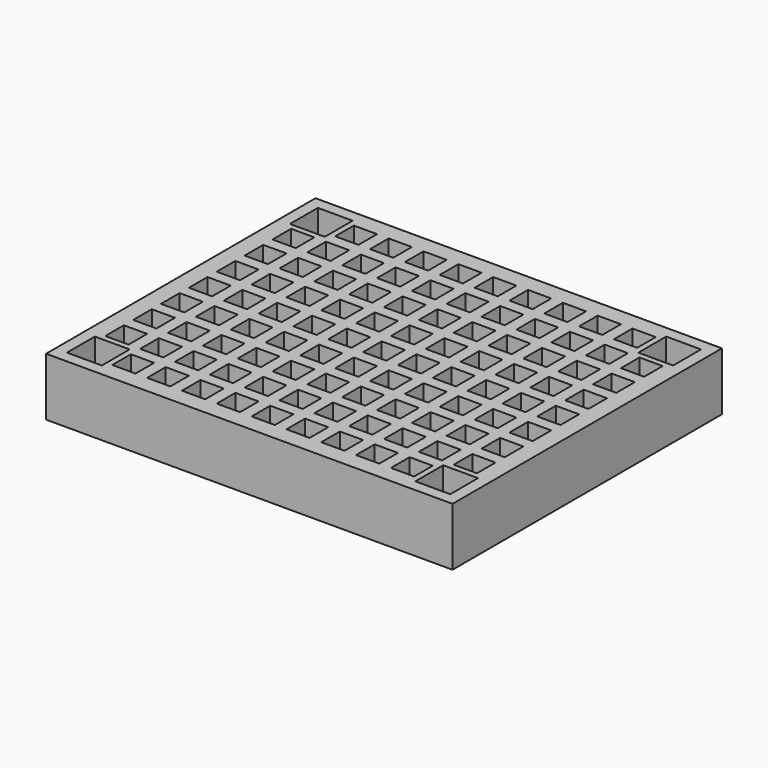
from build123d import *

# Parameters (mm, degrees)
F0_W     = 222.25
F0_H     = 184.15
F1_DEPTH = 31.75
F2_W     = 12.7
F2_H     = 12.7
F2_W_2   = 6.35
F3_DEPTH = 31.751
F4_W     = 19.05
F4_H     = 19.05
F5_DEPTH = 19.05


with BuildPart() as f1:
    # F0 (on Top) → F1 (new body)
    with BuildSketch(Plane.XY):
        Rectangle(F0_W, F0_H)
    extrude(amount=F1_DEPTH)

    # F2 (on face) → F3 (cut, through all)
    with BuildSketch(Plane.XY.offset(31.75)):
        with Locations((-76.2, -76.2)):
            Rectangle(F2_W, F2_H)
        with Locations((-76.2, -57.15)):
            Rectangle(F2_W, F2_H)
        with Locations((-76.2, -38.1)):
            Rectangle(F2_W, F2_H)
        with Locations((-76.2, -19.05)):
            Rectangle(F2_W, F2_H)
        with Locations((-76.2, 0)):
            Rectangle(F2_W, F2_H)
        with Locations((-76.2, 19.05)):
            Rectangle(F2_W, F2_H)
        with Locations((-76.2, 38.1)):
            Rectangle(F2_W, F2_H)
        with Locations((-76.2, 57.15)):
            Rectangle(F2_W, F2_H)
        with Locations((-76.2, 76.2)):
            Rectangle(F2_W, F2_H)
        with Locations((-57.15, -76.2)):
            Rectangle(F2_W, F2_H)
        with Locations((-57.15, -57.15)):
            Rectangle(F2_W, F2_H)
        with Locations((-57.15, -38.1)):
            Rectangle(F2_W, F2_H)
        with Locations((-57.15, -19.05)):
            Rectangle(F2_W, F2_H)
        with Locations((-57.15, 0)):
            Rectangle(F2_W, F2_H)
        with Locations((-57.15, 19.05)):
            Rectangle(F2_W, F2_H)
        with Locations((-57.15, 38.1)):
            Rectangle(F2_W, F2_H)
        with Locations((-57.15, 57.15)):
            Rectangle(F2_W, F2_H)
        with Locations((-57.15, 76.2)):
            Rectangle(F2_W, F2_H)
        with Locations((-38.1, -76.2)):
            Rectangle(F2_W, F2_H)
        with Locations((-38.1, -57.15)):
            Rectangle(F2_W, F2_H)
        with Locations((-38.1, -38.1)):
            Rectangle(F2_W, F2_H)
        with Locations((-38.1, -19.05)):
            Rectangle(F2_W, F2_H)
        with Locations((-38.1, 0)):
            Rectangle(F2_W, F2_H)
        with Locations((-38.1, 19.05)):
            Rectangle(F2_W, F2_H)
        with Locations((-38.1, 38.1)):
            Rectangle(F2_W, F2_H)
        with Locations((-38.1, 57.15)):
            Rectangle(F2_W, F2_H)
        with Locations((-38.1, 76.2)):
            Rectangle(F2_W, F2_H)
        with Locations((-19.05, -76.2)):
            Rectangle(F2_W, F2_H)
        with Locations((-19.05, -57.15)):
            Rectangle(F2_W, F2_H)
        with Locations((-19.05, -38.1)):
            Rectangle(F2_W, F2_H)
        with Locations((-19.05, -19.05)):
            Rectangle(F2_W, F2_H)
        with Locations((-19.05, 0)):
            Rectangle(F2_W, F2_H)
        with Locations((-19.05, 19.05)):
            Rectangle(F2_W, F2_H)
        with Locations((-19.05, 38.1)):
            Rectangle(F2_W, F2_H)
        with Locations((-19.05, 57.15)):
            Rectangle(F2_W, F2_H)
        with Locations((-19.05, 76.2)):
            Rectangle(F2_W, F2_H)
        with Locations((-3.175, 76.2)):
            Rectangle(F2_W_2, F2_H)
        with Locations((3.175, 76.2)):
            Rectangle(F2_W_2, F2_H)
        with Locations((-3.175, 57.15)):
            Rectangle(F2_W_2, F2_H)
        with Locations((3.175, 57.15)):
            Rectangle(F2_W_2, F2_H)
        with Locations((-3.175, 38.1)):
            Rectangle(F2_W_2, F2_H)
        with Locations((3.175, 38.1)):
            Rectangle(F2_W_2, F2_H)
        with Locations((-3.175, 19.05)):
            Rectangle(F2_W_2, F2_H)
        with Locations((3.175, 19.05)):
            Rectangle(F2_W_2, F2_H)
        with Locations((-3.175, 0)):
            Rectangle(F2_W_2, F2_H)
        with Locations((3.175, 0)):
            Rectangle(F2_W_2, F2_H)
        with Locations((-3.175, -19.05)):
            Rectangle(F2_W_2, F2_H)
        with Locations((3.175, -19.05)):
            Rectangle(F2_W_2, F2_H)
        with Locations((-3.175, -38.1)):
            Rectangle(F2_W_2, F2_H)
        with Locations((3.175, -38.1)):
            Rectangle(F2_W_2, F2_H)
        with Locations((-3.175, -57.15)):
            Rectangle(F2_W_2, F2_H)
        with Locations((3.175, -57.15)):
            Rectangle(F2_W_2, F2_H)
        with Locations((-3.175, -76.2)):
            Rectangle(F2_W_2, F2_H)
        with Locations((3.175, -76.2)):
            Rectangle(F2_W_2, F2_H)
        with Locations((19.05, -76.2)):
            Rectangle(F2_W, F2_H)
        with Locations((19.05, -57.15)):
            Rectangle(F2_W, F2_H)
        with Locations((19.05, -38.1)):
            Rectangle(F2_W, F2_H)
        with Locations((19.05, -19.05)):
            Rectangle(F2_W, F2_H)
        with Locations((19.05, 0)):
            Rectangle(F2_W, F2_H)
        with Locations((19.05, 19.05)):
            Rectangle(F2_W, F2_H)
        with Locations((19.05, 38.1)):
            Rectangle(F2_W, F2_H)
        with Locations((19.05, 57.15)):
            Rectangle(F2_W, F2_H)
        with Locations((19.05, 76.2)):
            Rectangle(F2_W, F2_H)
        with Locations((38.1, -76.2)):
            Rectangle(F2_W, F2_H)
        with Locations((38.1, -57.15)):
            Rectangle(F2_W, F2_H)
        with Locations((38.1, -38.1)):
            Rectangle(F2_W, F2_H)
        with Locations((38.1, -19.05)):
            Rectangle(F2_W, F2_H)
        with Locations((38.1, 0)):
            Rectangle(F2_W, F2_H)
        with Locations((38.1, 19.05)):
            Rectangle(F2_W, F2_H)
        with Locations((38.1, 38.1)):
            Rectangle(F2_W, F2_H)
        with Locations((38.1, 57.15)):
            Rectangle(F2_W, F2_H)
        with Locations((38.1, 76.2)):
            Rectangle(F2_W, F2_H)
        with Locations((57.15, -76.2)):
            Rectangle(F2_W, F2_H)
        with Locations((57.15, -57.15)):
            Rectangle(F2_W, F2_H)
        with Locations((57.15, -38.1)):
            Rectangle(F2_W, F2_H)
        with Locations((57.15, -19.05)):
            Rectangle(F2_W, F2_H)
        with Locations((57.15, 0)):
            Rectangle(F2_W, F2_H)
        with Locations((57.15, 19.05)):
            Rectangle(F2_W, F2_H)
        with Locations((57.15, 38.1)):
            Rectangle(F2_W, F2_H)
        with Locations((57.15, 57.15)):
            Rectangle(F2_W, F2_H)
        with Locations((57.15, 76.2)):
            Rectangle(F2_W, F2_H)
        with Locations((76.2, -76.2)):
            Rectangle(F2_W, F2_H)
        with Locations((76.2, -57.15)):
            Rectangle(F2_W, F2_H)
        with Locations((76.2, -38.1)):
            Rectangle(F2_W, F2_H)
        with Locations((76.2, -19.05)):
            Rectangle(F2_W, F2_H)
        with Locations((76.2, 0)):
            Rectangle(F2_W, F2_H)
        with Locations((76.2, 19.05)):
            Rectangle(F2_W, F2_H)
        with Locations((76.2, 38.1)):
            Rectangle(F2_W, F2_H)
        with Locations((76.2, 57.15)):
            Rectangle(F2_W, F2_H)
        with Locations((76.2, 76.2)):
            Rectangle(F2_W, F2_H)
        with Locations((-95.25, -57.15)):
            Rectangle(F2_W, F2_H)
        with Locations((-95.25, -38.1)):
            Rectangle(F2_W, F2_H)
        with Locations((-95.25, -19.05)):
            Rectangle(F2_W, F2_H)
        with Locations((-95.25, 0)):
            Rectangle(F2_W, F2_H)
        with Locations((-95.25, 19.05)):
            Rectangle(F2_W, F2_H)
        with Locations((95.25, -38.1)):
            Rectangle(F2_W, F2_H)
        with Locations((95.25, 19.05)):
            Rectangle(F2_W, F2_H)
        with Locations((95.25, -57.15)):
            Rectangle(F2_W, F2_H)
        with Locations((95.25, 0)):
            Rectangle(F2_W, F2_H)
        with Locations((95.25, -19.05)):
            Rectangle(F2_W, F2_H)
        with Locations((-95.25, 38.1)):
            Rectangle(F2_W, F2_H)
        with Locations((-95.25, 57.15)):
            Rectangle(F2_W, F2_H)
        with Locations((95.25, 38.1)):
            Rectangle(F2_W, F2_H)
        with Locations((95.25, 57.15)):
            Rectangle(F2_W, F2_H)
    extrude(amount=-F3_DEPTH, mode=Mode.SUBTRACT)

    # F4 (on face) → F5 (cut)
    with BuildSketch(Plane.XY.offset(31.75)):
        with Locations((-95.25, 76.2)):
            Rectangle(F4_W, F4_H)
        with Locations((95.25, 76.2)):
            Rectangle(F4_W, F4_H)
        with Locations((-95.25, -76.2)):
            Rectangle(F4_W, F4_H)
        with Locations((95.25, -76.2)):
            Rectangle(F4_W, F4_H)
    extrude(amount=-F5_DEPTH, mode=Mode.SUBTRACT)


solid = f1.part
